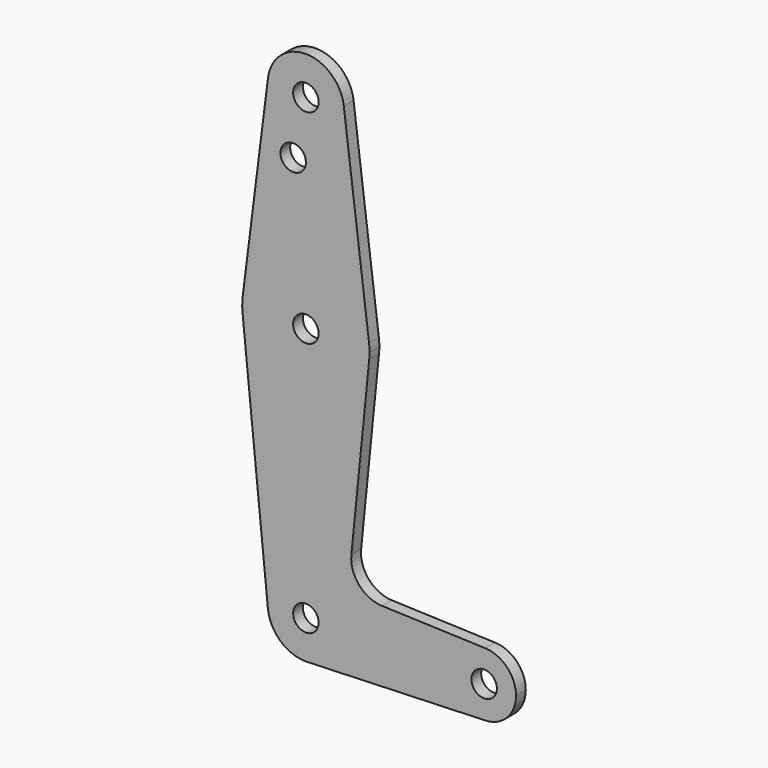
from build123d import *

# Parameters (mm, degrees)
F0_R     = 3.175
F1_DEPTH = 3.048


with BuildPart() as f1:
    # F0 (on Front) → F1 (new body)
    with BuildSketch(Plane.XZ):
        with BuildLine():
            ThreePointArc((0.677344, -9.500886), (6.970557, -6.491299), (9.525, 0))
            ThreePointArc((9.525, 0), (-0.476848, 9.513056), (-9.477255, -0.9525))
            ThreePointArc((-9.477255, -0.9525), (-6.389564, -7.063929), (0, -9.525))
            Line((0, -9.525), (0.677344, -9.500886))
        make_face()
        Circle(F0_R, mode=Mode.SUBTRACT)
        with BuildLine():
            ThreePointArc((-9.477255, -0.9525), (-0.476848, 9.513056), (9.525, 0))
            ThreePointArc((9.525, 0), (6.970557, -6.491299), (0.677344, -9.500886))
            Line((0.677344, -9.500886), (44.732405, -7.932475))
            ThreePointArc((44.732405, -7.932475), (36.5125, 0), (44.732405, 7.932475))
            Line((44.732405, 7.932475), (18.968328, 8.849706))
            ThreePointArc((18.968328, 8.849706), (13.261204, 11.567463), (11.340836, 17.589892))
            Line((11.340836, 17.589892), (15.795426, 61.9125))
            ThreePointArc((15.795426, 61.9125), (0, 47.625), (-15.795426, 61.9125))
            Line((-15.795426, 61.9125), (-9.477255, -0.9525))
        make_face()
        with BuildLine():
            ThreePointArc((0, -9.525), (0.338886, -9.51897), (0.677344, -9.500886))
            Line((0.677344, -9.500886), (0, -9.525))
        make_face()
        with BuildLine():
            ThreePointArc((-15.750488, 65.484375), (-15.873744, 63.699705), (-15.795426, 61.9125))
            ThreePointArc((-15.795426, 61.9125), (0, 47.625), (15.795426, 61.9125))
            ThreePointArc((15.795426, 61.9125), (15.855094, 62.705253), (15.875, 63.5))
            ThreePointArc((15.875, 63.5), (15.843841, 64.494139), (15.750488, 65.484375))
            ThreePointArc((15.750488, 65.484375), (0, 79.375), (-15.750488, 65.484375))
        make_face()
        with Locations((0, 63.5)):
            Circle(F0_R, mode=Mode.SUBTRACT)
        with BuildLine():
            ThreePointArc((44.732405, 7.932475), (36.5125, 0), (44.732405, -7.932475))
            ThreePointArc((44.732405, -7.932475), (50.161633, -5.51191), (52.3875, 0))
            ThreePointArc((52.3875, 0), (50.161633, 5.51191), (44.732405, 7.932475))
        make_face()
        with Locations((44.45, 0)):
            Circle(F0_R, mode=Mode.SUBTRACT)
        with BuildLine():
            Line((-9.450293, 115.490625), (-15.750488, 65.484375))
            ThreePointArc((-15.750488, 65.484375), (0, 79.375), (15.750488, 65.484375))
            Line((15.750488, 65.484375), (9.450293, 115.490625))
            ThreePointArc((9.450293, 115.490625), (9.506305, 114.896483), (9.525, 114.3))
            ThreePointArc((9.525, 114.3), (-0.596483, 104.793695), (-9.450293, 115.490625))
        make_face()
        with Locations((-3.175, 100.0252)):
            Circle(F0_R, mode=Mode.SUBTRACT)
        with BuildLine():
            ThreePointArc((9.450293, 115.490625), (0, 123.825), (-9.450293, 115.490625))
            ThreePointArc((-9.450293, 115.490625), (-0.596483, 104.793695), (9.525, 114.3))
            ThreePointArc((9.525, 114.3), (9.506305, 114.896483), (9.450293, 115.490625))
        make_face()
        with Locations((0, 114.3)):
            Circle(F0_R, mode=Mode.SUBTRACT)
    extrude(amount=-F1_DEPTH)


solid = f1.part
